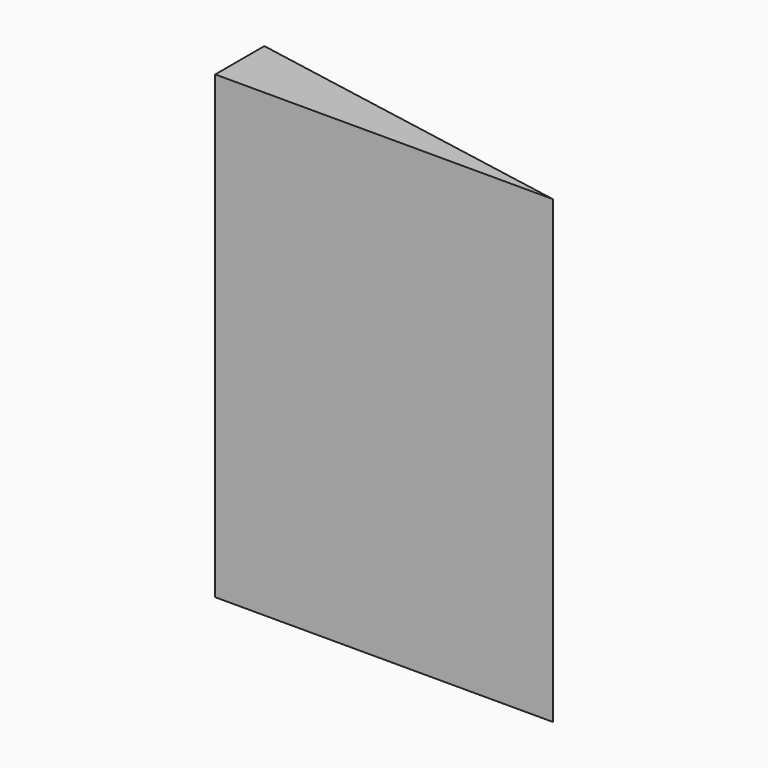
from build123d import *

# Parameters (mm, degrees)
F1_DEPTH = 95.25
F3_DEPTH = 93.98


with BuildPart() as f1:
    # F0 (on Top) → F1 (new body)
    with BuildSketch(Plane.XY):
        Polygon((-52.412679, 38.235107), (-52.412679, 25.535107), (17.437321, 25.535107), align=None)
    extrude(amount=F1_DEPTH)

    # F2 (on face) → F3 (cut)
    with BuildSketch(Plane(origin=(0, 0, 0), x_dir=(1, 0, 0), z_dir=(0, 0, -1))):
        with BuildLine():
            ThreePointArc((-44.792679, -31.885107), (-47.967679, -28.710107), (-51.142679, -31.885107))
            ThreePointArc((-51.142679, -31.885107), (-47.967679, -35.060107), (-44.792679, -31.885107))
        make_face()
    extrude(amount=-F3_DEPTH, mode=Mode.SUBTRACT)


solid = f1.part
